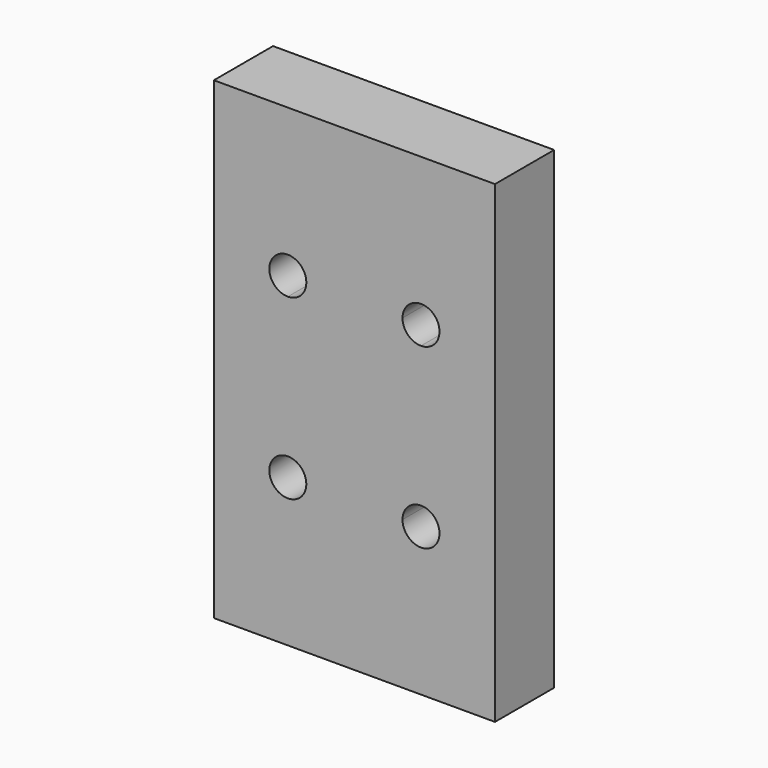
from build123d import *

# Parameters (mm, degrees)
F0_W     = 38
F0_H     = 64
F1_DEPTH = 10


with BuildPart() as f1:
    # F0 (on Front) → F1 (new body)
    with BuildSketch(Plane.XZ):
        with Locations((0.4366999457, -3.6868201261)):
            Rectangle(F0_W, F0_H)
        with BuildLine():
            ThreePointArc((-8.5633000543, 5.8131798739), (-10.3310670073, 10.0809468269), (-6.0633000543, 8.3131798739))
            Line((-6.0633000543, 8.3131798739), (6.9366999457, 8.3131798739))
            ThreePointArc((6.9366999457, 8.3131798739), (9.4366999457, 10.8131798739), (11.9366999457, 8.3131798739))
            ThreePointArc((11.9366999457, 8.3131798739), (11.2044668986, 6.5454129209), (9.4366999457, 5.8131798739))
            Line((9.4366999457, 5.8131798739), (9.4366999457, -13.1868201261))
            ThreePointArc((9.4366999457, -13.1868201261), (11.2044668986, -13.9190531731), (11.9366999457, -15.6868201261))
            ThreePointArc((11.9366999457, -15.6868201261), (9.4366999457, -18.1868201261), (6.9366999457, -15.6868201261))
            Line((6.9366999457, -15.6868201261), (-6.0633000543, -15.6868201261))
            ThreePointArc((-6.0633000543, -15.6868201261), (-10.3310670073, -17.4545870791), (-8.5633000543, -13.1868201261))
            Line((-8.5633000543, -13.1868201261), (-8.5633000543, 5.8131798739))
        make_face(mode=Mode.SUBTRACT)
        with BuildLine():
            Line((6.9366999457, 8.3131798739), (-6.0633000543, 8.3131798739))
            ThreePointArc((-6.0633000543, 8.3131798739), (-6.7955331014, 6.5454129209), (-8.5633000543, 5.8131798739))
            Line((-8.5633000543, 5.8131798739), (-8.5633000543, -13.1868201261))
            ThreePointArc((-8.5633000543, -13.1868201261), (-6.7955331014, -13.9190531731), (-6.0633000543, -15.6868201261))
            Line((-6.0633000543, -15.6868201261), (6.9366999457, -15.6868201261))
            ThreePointArc((6.9366999457, -15.6868201261), (7.6689329927, -13.9190531731), (9.4366999457, -13.1868201261))
            Line((9.4366999457, -13.1868201261), (9.4366999457, 5.8131798739))
            ThreePointArc((9.4366999457, 5.8131798739), (7.6689329927, 6.5454129209), (6.9366999457, 8.3131798739))
        make_face()
    extrude(amount=F1_DEPTH)


solid = f1.part
